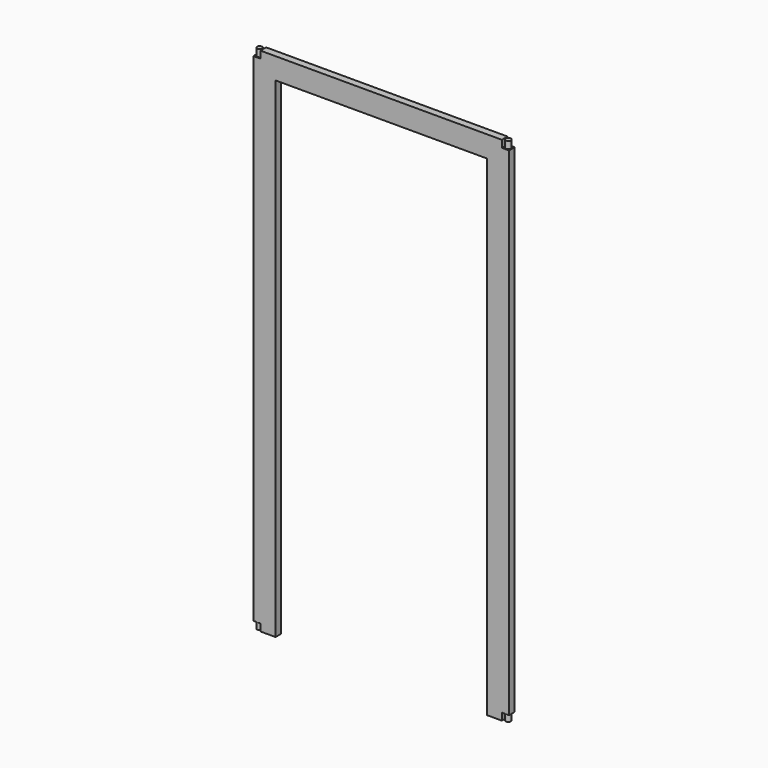
from build123d import *

# Parameters (mm, degrees)
F0_W      = 914.4
F0_H      = 1828.8
F1_DEPTH  = 25.4
F2_W      = 25.4
F2_H      = 25.4
F3_DEPTH  = 25.4
F4_W      = 25.4
F4_H      = 25.4
F5_DEPTH  = 25.4
F6_R      = 9.525
F7_DEPTH  = 25.4
F8_R      = 9.525
F9_DEPTH  = 25.4
F10_R     = 9.525
F11_DEPTH = 25.4
F12_R     = 9.525
F13_DEPTH = 25.4
F15_DEPTH = 25.4


with BuildPart() as f1:
    # F0 (on Front) → F1 (new body)
    with BuildSketch(Plane.XZ):
        Rectangle(F0_W, F0_H)
    extrude(amount=F1_DEPTH)

    # F2 (on face) → F3 (cut)
    with BuildSketch(Plane.XY.offset(914.4)):
        with Locations((-444.5, -12.7)):
            Rectangle(F2_W, F2_H)
        with Locations((444.5, -12.7)):
            Rectangle(F2_W, F2_H)
    extrude(amount=-F3_DEPTH, mode=Mode.SUBTRACT)

    # F4 (on face) → F5 (cut)
    with BuildSketch(Plane(origin=(0, 0, -914.4), x_dir=(1, 0, 0), z_dir=(0, 0, -1))):
        with Locations((-444.5, 12.7)):
            Rectangle(F4_W, F4_H)
        with Locations((444.5, 12.7)):
            Rectangle(F4_W, F4_H)
    extrude(amount=-F5_DEPTH, mode=Mode.SUBTRACT)

    # F6 (on face) → F7 (join)
    with BuildSketch(Plane.XY.offset(889)):
        with Locations((-444.5, -12.7)):
            Circle(F6_R)
    extrude(amount=F7_DEPTH)

    # F8 (on face) → F9 (join)
    with BuildSketch(Plane.XY.offset(889)):
        with Locations((444.5, -12.7)):
            Circle(F8_R)
    extrude(amount=F9_DEPTH)

    # F10 (on face) → F11 (join)
    with BuildSketch(Plane(origin=(0, 0, -889), x_dir=(1, 0, 0), z_dir=(0, 0, -1))):
        with Locations((-444.5, 12.7)):
            Circle(F10_R)
    extrude(amount=F11_DEPTH)

    # F12 (on face) → F13 (join)
    with BuildSketch(Plane(origin=(0, 0, -889), x_dir=(1, 0, 0), z_dir=(0, 0, -1))):
        with Locations((444.5, 12.7)):
            Circle(F12_R)
    extrude(amount=F13_DEPTH)

    # F14 (on face) → F15 (cut)
    with BuildSketch(Plane.XZ.offset(25.4)):
        Polygon((-377.825, 838.2), (-377.825, -914.4), (-323.85, -914.4), (-215.9, -914.4), (0, -914.4), (215.9, -914.4), (323.85, -914.4), (377.825, -914.4), (377.825, 838.2), align=None)
    extrude(amount=-F15_DEPTH, mode=Mode.SUBTRACT)


solid = f1.part
